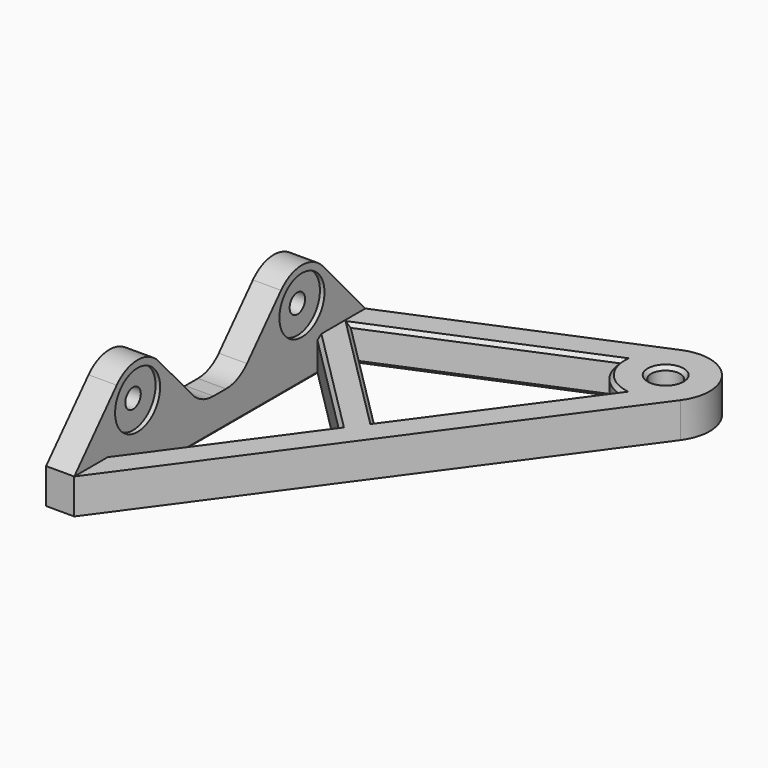
from build123d import *

# Parameters (mm, degrees)
SKETCH_R        = 4.1
PAD_DEPTH       = 10
POCKET_DEPTH    = 10
PAD001_DEPTH    = 20
POCKET001_DEPTH = 10
CHAMFER_SIZE    = 1
CHAMFER001_SIZE = 1
SKETCH004_R     = 2.75
POCKET002_DEPTH = 8.001
SKETCH005_R     = 8
POCKET003_DEPTH = 1.3
FILLET_R        = 10


with BuildPart() as part:
    # Sketch → Pad (new body)
    with BuildSketch(Plane.XY):
        with BuildLine():
            Line((0, 0), (0, 100))
            Line((0, 100), (75.165103, 131.527089))
            ThreePointArc((90.101368, 112.637096), (89.805197, 127.752942), (75.165103, 131.527089))
            Line((90.101368, 112.637096), (8, 0))
            Line((8, 0), (0, 0))
        make_face()
        with Locations((80, 120)):
            Circle(SKETCH_R, mode=Mode.SUBTRACT)
    extrude(amount=PAD_DEPTH)

    # Sketch001 (on DatumPlane) → Pocket (cut)
    with BuildSketch(Plane.XY.offset(10)):
        Polygon((8, 13.581597), (8, 86.343146), (38.676131, 55.667014), align=None)
        with BuildLine():
            ThreePointArc((67.505213, 119.639023), (70.194803, 112.247058), (76.767254, 107.92526))
            Line((76.767254, 107.92526), (43.445969, 62.210885))
            Line((10.097006, 95.559849), (43.445969, 62.210885))
            Line((67.505213, 119.639023), (10.097006, 95.559849))
        make_face()
    extrude(amount=-POCKET_DEPTH, mode=Mode.SUBTRACT)

    # Sketch003 (on DatumPlane) → Pad001 (join)
    with BuildSketch(Plane.XY.offset(10)):
        Polygon((0, 100), (0, 0), (8, 0), (8, 103.355503), align=None)
    extrude(amount=PAD001_DEPTH)

    # Sketch002 (on DatumPlane) → Pocket001 (cut)
    with BuildSketch(Plane.YZ.offset(8)):
        with BuildLine():
            Line((0, 10), (15.077323, 26.70103))
            ThreePointArc((29.922685, 26.70103), (22.500004, 30), (15.077323, 26.70103))
            Line((29.922685, 26.70103), (45, 10))
            Line((45, 10), (58.355503, 10))
            Line((73.432722, 26.701024), (58.355503, 10))
            ThreePointArc((88.278096, 26.701024), (80.855409, 30), (73.432722, 26.701024))
            Line((103.355503, 10), (88.278096, 26.701024))
            Line((103.355503, 10), (128.355503, 10))
            Line((128.355503, 50), (128.355503, 10))
            Line((-25, 50), (128.355503, 50))
            Line((-25, 10), (-25, 50))
            Line((0, 10), (-25, 10))
        make_face()
    extrude(amount=-POCKET001_DEPTH, mode=Mode.SUBTRACT)

    # Chamfer
    chamfer_edges = [part.edges().sort_by_distance(p)[0] for p in [
        (75.9, 120, 10),
        (75.9, 120, 0),
    ]]
    chamfer(chamfer_edges, length=CHAMFER_SIZE)

    # Chamfer001
    chamfer001_edges = [part.edges().sort_by_distance(p)[0] for p in [
        (38.801109, 107.599436, 10),
        (70.194803, 112.247058, 10),
        (60.106612, 85.068072, 10),
        (26.771487, 78.885367, 10),
        (23.338066, 71.00508, 10),
        (23.338066, 34.624306, 10),
        (70.194803, 112.247058, 0),
        (60.106612, 85.068072, 0),
        (26.771487, 78.885367, 0),
        (38.801109, 107.599436, 0),
        (23.338066, 34.624306, 0),
        (8, 49.962371, 0),
        (23.338066, 71.00508, 0),
    ]]
    chamfer(chamfer001_edges, length=CHAMFER001_SIZE)

    # Sketch004 (on DatumPlane) → Pocket002 (cut, through all)
    with BuildSketch(Plane.YZ.offset(8)):
        with Locations((22.500004, 20)):
            Circle(SKETCH004_R)
        with Locations((80.855409, 20)):
            Circle(SKETCH004_R)
    extrude(amount=-POCKET002_DEPTH, mode=Mode.SUBTRACT)

    # Sketch005 (on DatumPlane) → Pocket003 (cut)
    with BuildSketch(Plane.YZ.offset(8)):
        with Locations((22.500004, 20)):
            Circle(SKETCH005_R)
        with Locations((80.855409, 20)):
            Circle(SKETCH005_R)
    extrude(amount=-POCKET003_DEPTH, mode=Mode.SUBTRACT)

    # Fillet
    fillet_edges = [part.edges().sort_by_distance(p)[0] for p in [
        (4, 58.355503, 10),
        (4, 45, 10),
    ]]
    fillet(fillet_edges, radius=FILLET_R)


solid = part.part
